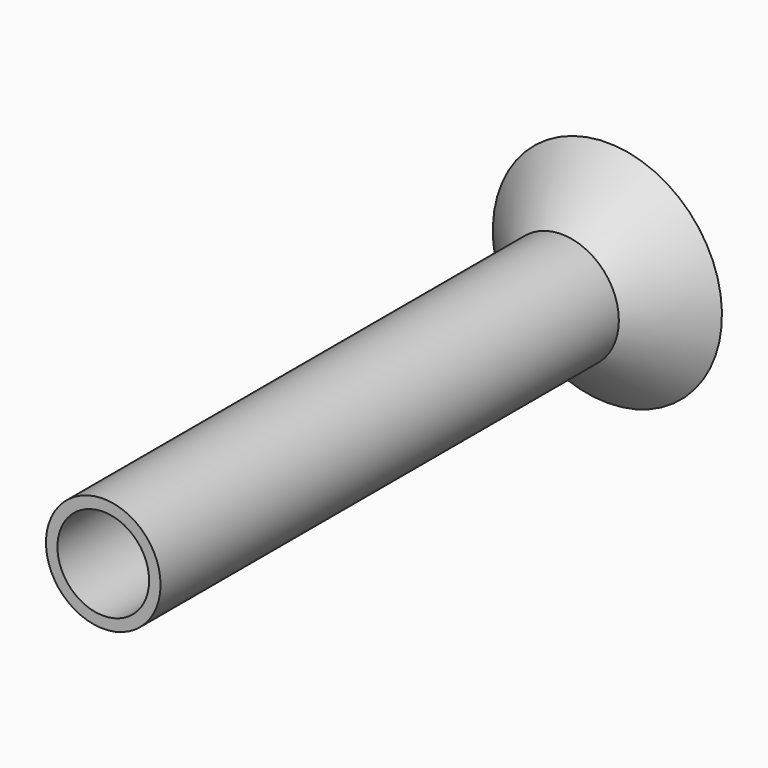
from build123d import *

# Parameters (mm, degrees)
F0_R     = 10
F0_R_2   = 8
F1_DEPTH = 100
F4_SIZE  = 1


with BuildPart() as f1:
    # F0 (on Front) → F1 (new body)
    with BuildSketch(Plane.XZ):
        Circle(F0_R)
        Circle(F0_R_2, mode=Mode.SUBTRACT)
    extrude(amount=F1_DEPTH)

    # F2 (on Right) → F3 (revolve)
    with BuildSketch(Plane.YZ):
        Polygon((2, -8), (0, -8), (0, -10), (10, -20), (10, -17.171573), (2, -9.171573), align=None)
    revolve(axis=Axis((0, 7.857602, 0), (0, 1, 0)))

    # F4
    f4_edges = [f1.edges().sort_by_distance(p)[0] for p in [
        (0, 2, 8),
    ]]
    chamfer(f4_edges, length=F4_SIZE)


solid = f1.part
